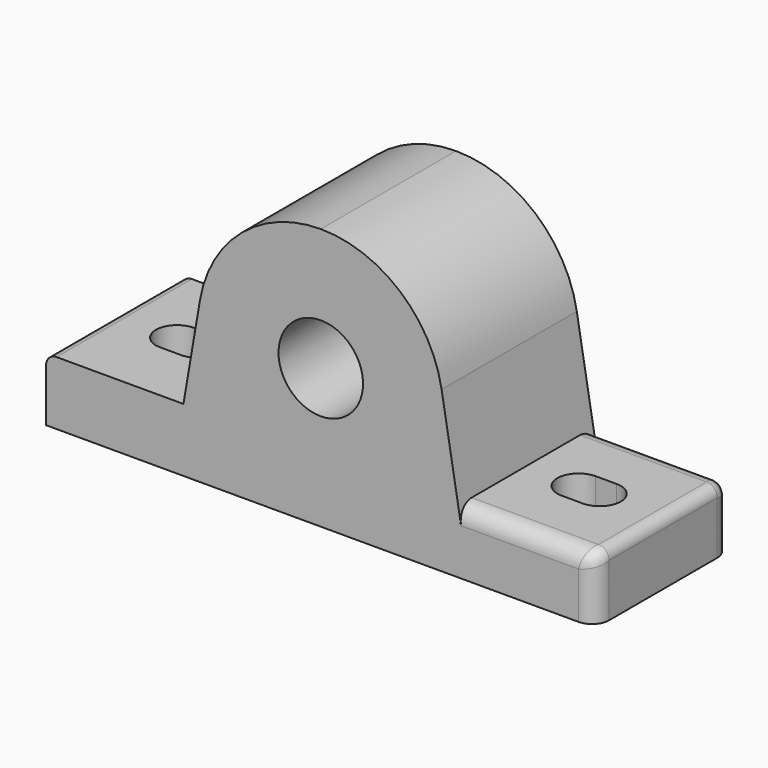
from build123d import *

# Parameters (mm, degrees)
PAD_DEPTH    = 20
POCKET_DEPTH = 258.663147
FILLET_R     = 4


with BuildPart() as part:
    # Sketch → Pad (new body, symmetric)
    with BuildSketch(Plane.XZ):
        with BuildLine():
            Line((0, 23), (0, 0))
            Line((0, 0), (65, 0))
            Line((65, 0), (65, 12.5))
            ThreePointArc((65, 12.5), (64.267767, 14.267767), (62.5, 15))
            Line((47.5, 15), (62.5, 15))
            Line((32.5, 15), (47.5, 15))
            Line((32.5, 15), (28.584863, 37.889336))
            ThreePointArc((28.584863, 37.889336), (18.697717, 55.167439), (0, 62))
            Line((0, 43), (0, 62))
            ThreePointArc((0, 23), (10, 33), (0, 43))
        make_face()
    pad = extrude(amount=PAD_DEPTH, both=True)

    # Sketch001 → Pocket (cut, through all)
    with BuildSketch(Plane.XY):
        with BuildLine():
            ThreePointArc((45, 5), (40, 0), (45, -5))
            Line((45, -5), (50, -5))
            ThreePointArc((50, -5), (55, 0), (50, 5))
            Line((50, 5), (45, 5))
        make_face()
    pocket = extrude(amount=POCKET_DEPTH, mode=Mode.SUBTRACT)

    # Mirrored: Pad, Pocket across Sketch V_Axis
    add(pad.mirror(Plane(origin=(0, 0, 0), x_dir=(0, -1, 0), z_dir=(1, 0, 0))))
    add(pocket.mirror(Plane(origin=(0, 0, 0), x_dir=(0, -1, 0), z_dir=(1, 0, 0))), mode=Mode.SUBTRACT)

    # Fillet
    fillet_edges = [part.edges().sort_by_distance(p)[0] for p in [
        (65, -20, 6.25),
        (65, 20, 6.25),
    ]]
    fillet(fillet_edges, radius=FILLET_R)


solid = part.part
